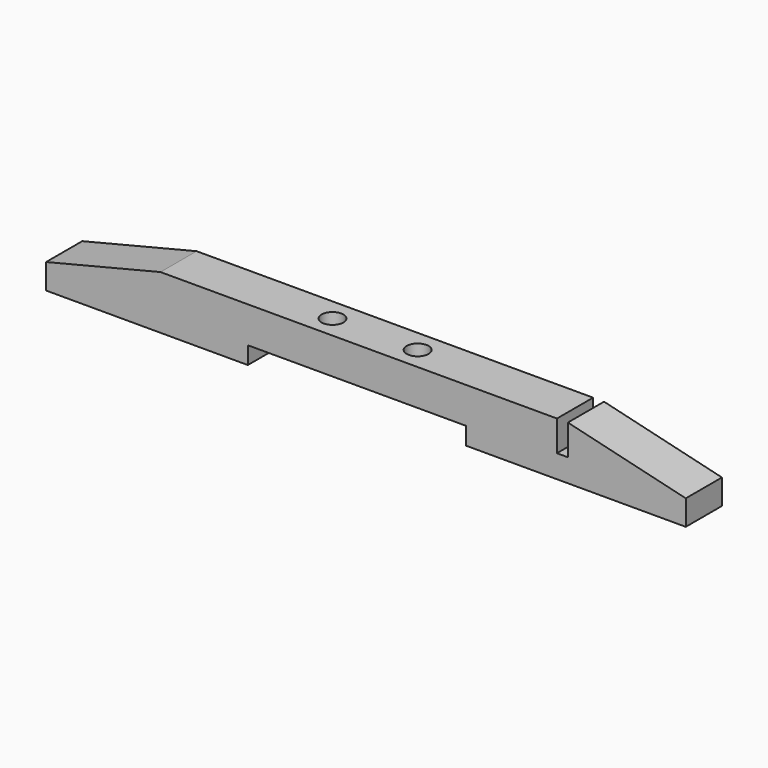
from build123d import *

# Parameters (mm, degrees)
F1_DEPTH = 5.175
F2_R     = 2.5
F3_DEPTH = 25


with BuildPart() as f1:
    # F0 (on Front) → F1 (new body, symmetric)
    with BuildSketch(Plane.XZ):
        Polygon((-25, 0), (-25, 4), (25, 4), (25, 0), (45.8, 0), (45.8, 5.25), (45.8, 12.25), (-45, 12.25), (-45, 0), align=None)
        Polygon((-71.2059153628, 0), (-45, 0), (-45, 12.25), (-71.2059153628, 5.75), align=None)
        Polygon((45.8, 5.25), (45.8, 0), (75.3, 0), (75.3, 5.75), (48.3, 12.25), (48.3, 5.25), align=None)
    extrude(amount=F1_DEPTH, both=True)

    # F2 (on Top) → F3 (cut, symmetric)
    with BuildSketch(Plane.XY):
        with Locations((9.75, 0)):
            Circle(F2_R)
        with Locations((-9.75, 0)):
            Circle(F2_R)
    extrude(amount=F3_DEPTH, both=True, mode=Mode.SUBTRACT)


solid = f1.part
